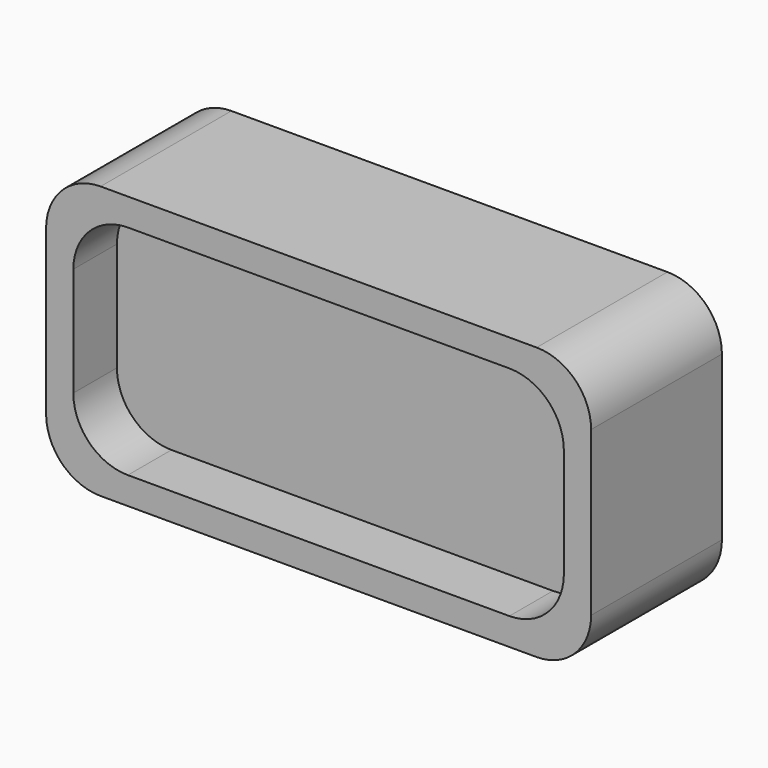
from build123d import *

# Parameters (mm, degrees)
F1_DEPTH = 50.8
F2_DEPTH = 76.2


with BuildPart() as f1:
    # F0 (on Front) → F1 (new body)
    with BuildSketch(Plane.XZ):
        with BuildLine():
            ThreePointArc((-114.3, -25.4), (-106.860512, -43.360512), (-88.9, -50.8))
            Line((-88.9, -50.8), (88.9, -50.8))
            ThreePointArc((88.9, -50.8), (106.860512, -43.360512), (114.3, -25.4))
            Line((114.3, -25.4), (114.3, 25.4))
            ThreePointArc((114.3, 25.4), (106.860512, 43.360512), (88.9, 50.8))
            Line((88.9, 50.8), (-88.9, 50.8))
            ThreePointArc((-88.9, 50.8), (-106.860512, 43.360512), (-114.3, 25.4))
            Line((-114.3, 25.4), (-114.3, -25.4))
        make_face()
    extrude(amount=F1_DEPTH)


with BuildPart() as f2:
    # F0 (on Front) → F2 (new body)
    with BuildSketch(Plane.XZ):
        with BuildLine():
            ThreePointArc((-127, -38.1), (-119.560512, -56.060512), (-101.6, -63.5))
            Line((-101.6, -63.5), (101.6, -63.5))
            ThreePointArc((101.6, -63.5), (119.560512, -56.060512), (127, -38.1))
            Line((127, -38.1), (127, 38.1))
            ThreePointArc((127, 38.1), (119.560512, 56.060512), (101.6, 63.5))
            Line((101.6, 63.5), (-101.6, 63.5))
            ThreePointArc((-101.6, 63.5), (-119.560512, 56.060512), (-127, 38.1))
            Line((-127, 38.1), (-127, -38.1))
        make_face()
        with BuildLine():
            Line((88.9, -50.8), (-88.9, -50.8))
            ThreePointArc((-88.9, -50.8), (-106.860512, -43.360512), (-114.3, -25.4))
            Line((-114.3, -25.4), (-114.3, 25.4))
            ThreePointArc((-114.3, 25.4), (-106.860512, 43.360512), (-88.9, 50.8))
            Line((-88.9, 50.8), (88.9, 50.8))
            ThreePointArc((88.9, 50.8), (106.860512, 43.360512), (114.3, 25.4))
            Line((114.3, 25.4), (114.3, -25.4))
            ThreePointArc((114.3, -25.4), (106.860512, -43.360512), (88.9, -50.8))
        make_face(mode=Mode.SUBTRACT)
    extrude(amount=F2_DEPTH)


solid = Compound([f1.part, f2.part])
